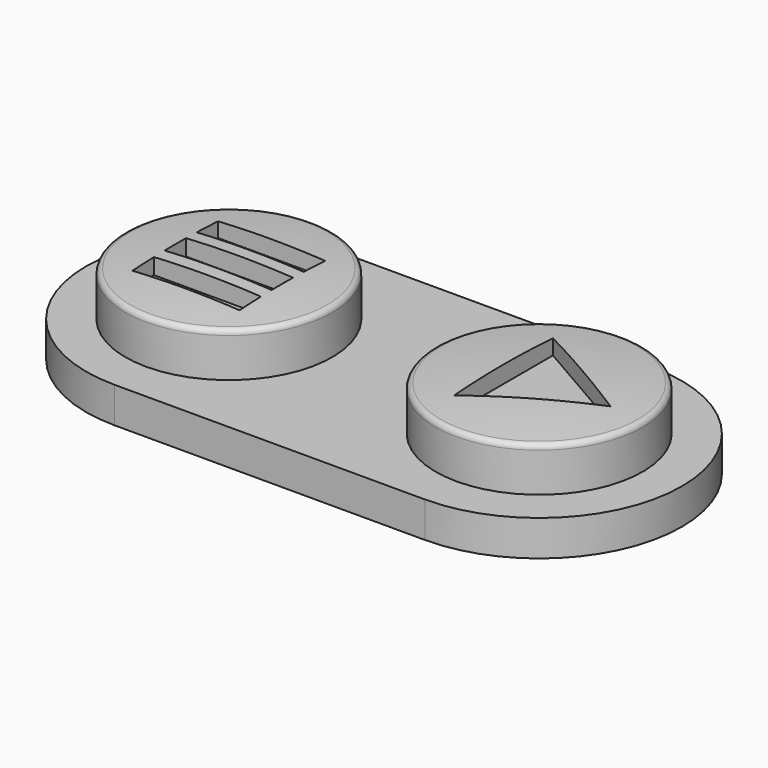
from build123d import *

# Parameters (mm, degrees)
PAD005_DEPTH           = 1
SKETCH011_R            = 2.05
POCKET008_DEPTH        = 0.32
LINEARPATTERN002_COUNT = 2
LINEARPATTERN002_PITCH = 8.7
LINEARPATTERN003_COUNT = 2
LINEARPATTERN003_PITCH = 8.7
SKETCH013_W            = 3
SKETCH013_H            = 0.75
POCKET009_DEPTH        = 0.5


with BuildPart() as part:
    # Sketch010 (on DatumPlane) → Pad005 (new body)
    with BuildSketch(Plane(origin=(0, 0, 1.2), x_dir=(1, 0, 0), z_dir=(0, 0, -1))):
        with BuildLine():
            ThreePointArc((18.55, -6.11), (14.55, -10.11), (18.55, -14.11))
            Line((18.55, -14.11), (27.25, -14.11))
            ThreePointArc((27.25, -14.11), (31.25, -10.11), (27.25, -6.11))
            Line((18.55, -6.11), (27.25, -6.11))
        make_face()
    extrude(amount=-PAD005_DEPTH)

    # Sketch011 (on Face2 of Pad005) → Pocket008 (cut)
    with BuildSketch(Plane(origin=(0, 0, 1.2), x_dir=(1, 0, 0), z_dir=(0, 0, -1))):
        with Locations((18.55, -10.11)):
            Circle(SKETCH011_R)
    pocket008 = extrude(amount=-POCKET008_DEPTH, mode=Mode.SUBTRACT)

    # LinearPattern002: Pocket008 ×2
    with Locations(*[(i * LINEARPATTERN002_PITCH, 0, 0) for i in range(1, LINEARPATTERN002_COUNT)]):
        add(pocket008, mode=Mode.SUBTRACT)

    # Sketch012 (on DatumPlane) → Revolution001 (revolve)
    with BuildSketch(Plane(origin=(18.55, 6.74, 1.2), x_dir=(0, -1, 0), z_dir=(-1, 0, 0))):
        with BuildLine():
            Line((-3.37, 1), (-3.37, 2.4))
            ThreePointArc((-0.604564, 2.25), (-1.985249, 2.362472), (-3.37, 2.4))
            ThreePointArc((-0.47, 2.1), (-0.508571, 2.200756), (-0.604564, 2.25))
            Line((-0.47, 1), (-0.47, 2.1))
            Line((-3.37, 1), (-0.47, 1))
        make_face()
    revolution001 = revolve(axis=Axis((18.55, 10.11, 1.2), (0, 0, -1)))

    # LinearPattern003: Revolution001 ×2
    with Locations(*[(i * LINEARPATTERN003_PITCH, 0, 0) for i in range(1, LINEARPATTERN003_COUNT)]):
        add(revolution001)

    # Sketch013 (on DatumPlane) → Pocket009 (cut)
    with BuildSketch(Plane(origin=(27.25, 10.11, 3.6), x_dir=(-1, 0, 0), z_dir=(0, 0, 1))):
        Polygon((1, 1.732051), (-2, 0), (1, -1.732051), align=None)
        with Locations((8.7, 0)):
            Rectangle(SKETCH013_W, SKETCH013_H)
        with Locations((8.7, 1.125)):
            Rectangle(SKETCH013_W, SKETCH013_H)
        with Locations((8.7, -1.125)):
            Rectangle(SKETCH013_W, SKETCH013_H)
    extrude(amount=-POCKET009_DEPTH, mode=Mode.SUBTRACT)


solid = part.part
